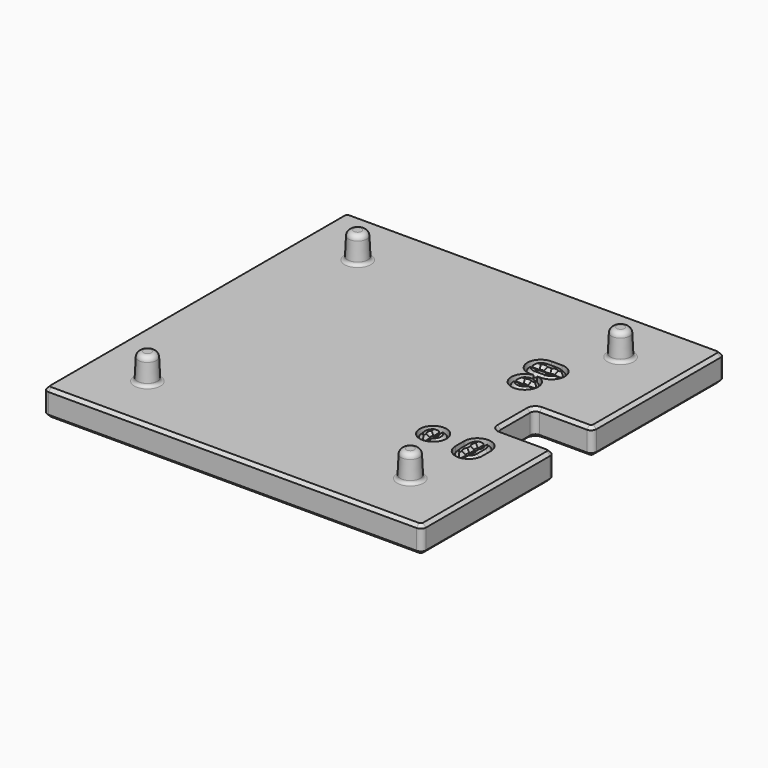
from build123d import *

# Parameters (mm, degrees)
SKETCH_R           = 0.425
PAD_DEPTH          = 5
FILLET_R           = 1
CHAMFER003_SIZE    = 0.6
SKETCH002_R        = 0.7
POCKET_DEPTH       = 3.001
CHAMFER001_SIZE    = 0.27
SKETCH003_R        = 2.55
POCKET001_DEPTH    = 4
CHAMFER004_SIZE    = 0.6
FILLET003_R        = 0.4
FILLET004_R        = 0.2075
SKETCH004_R        = 1.9
PAD001_DEPTH       = 5
FILLET001_R        = 0.6
CHAMFER002_1_SIZE2 = 0.2
CHAMFER002_1_SIZE  = 4.39
CHAMFER002_2_SIZE2 = 0.2
CHAMFER002_2_SIZE  = 4.39
CHAMFER002_3_SIZE2 = 0.2
CHAMFER002_3_SIZE  = 4.39
CHAMFER002_4_SIZE2 = 0.2
CHAMFER002_4_SIZE  = 4.39
FILLET002_R        = 1


with BuildPart() as part:
    # Sketch → Pad (new body)
    with BuildSketch(Plane.XY):
        Polygon((-36, 36), (36, 36), (36, 4.5), (25, 4.5), (25, -4.5), (36, -4.5), (36, -36), (-36, -36), align=None)
        with Locations((18.7, -11.7)):
            Circle(SKETCH_R, mode=Mode.SUBTRACT)
        with Locations((26.32, -10.685)):
            Circle(SKETCH_R, mode=Mode.SUBTRACT)
        with Locations((26.32, -12.715)):
            Circle(SKETCH_R, mode=Mode.SUBTRACT)
        with Locations((17.885, 14.93)):
            Circle(SKETCH_R, mode=Mode.SUBTRACT)
        with Locations((19.915, 14.93)):
            Circle(SKETCH_R, mode=Mode.SUBTRACT)
        with Locations((18.9, 9.85)):
            Circle(SKETCH_R, mode=Mode.SUBTRACT)
    extrude(amount=PAD_DEPTH)

    # Fillet
    fillet_edges = [part.edges().sort_by_distance(p)[0] for p in [
        (25, 4.5, 2.5),
        (36, 4.5, 2.5),
        (36, 36, 2.5),
        (36, -4.5, 2.5),
        (36, -36, 2.5),
        (-36, -36, 2.5),
        (25, -4.5, 2.5),
        (-36, 36, 2.5),
    ]]
    fillet(fillet_edges, radius=FILLET_R)

    # Chamfer003
    chamfer003_edges = [part.edges().sort_by_distance(p)[0] for p in [
        (-36, 0, 5),
        (-36, 0, 0),
    ]]
    chamfer(chamfer003_edges, length=CHAMFER003_SIZE)

    # Sketch002 → Pocket (cut, through all)
    with BuildSketch(Plane.XY.offset(3)):
        with Locations((18.7, -11.7)):
            Circle(SKETCH002_R)
        with Locations((18.9, 9.85)):
            Circle(SKETCH002_R)
        with BuildLine():
            ThreePointArc((27.02, -10.685), (26.32, -9.985), (25.62, -10.685))
            Line((25.62, -10.685), (25.62, -12.71501))
            ThreePointArc((25.62, -12.71501), (26.32, -13.415), (27.02, -12.71501))
            Line((27.02, -10.685), (27.02, -12.71501))
        make_face()
        with BuildLine():
            ThreePointArc((17.885, 15.63), (17.185, 14.93), (17.885, 14.23))
            Line((17.885, 14.23), (19.915, 14.23))
            ThreePointArc((19.915, 14.23), (20.615, 14.93), (19.915, 15.63))
            Line((17.885, 15.63), (19.915, 15.63))
        make_face()
    extrude(amount=-POCKET_DEPTH, mode=Mode.SUBTRACT)

    # Chamfer001
    chamfer001_edges = [part.edges().sort_by_distance(p)[0] for p in [
        (18, -11.7, 3),
        (26.32, -9.985, 3),
        (18.2, 9.85, 3),
        (20.615, 14.93, 3),
    ]]
    chamfer(chamfer001_edges, length=CHAMFER001_SIZE)

    # Sketch003 → Pocket001 (cut)
    with BuildSketch(Plane.XY.offset(5)):
        with Locations((18.7, -11.7)):
            Circle(SKETCH003_R)
        with BuildLine():
            ThreePointArc((18.4875, -9.610779), (16.6, -11.7), (18.4875, -13.789221))
            Line((18.4875, -9.610779), (18.4875, -13.789221))
        make_face(mode=Mode.SUBTRACT)
        with BuildLine():
            ThreePointArc((18.9125, -13.789221), (20.8, -11.7), (18.9125, -9.610779))
            Line((18.9125, -9.610779), (18.9125, -13.789221))
        make_face(mode=Mode.SUBTRACT)
        with Locations((18.9, 9.85)):
            Circle(SKETCH003_R)
        with BuildLine():
            Line((20.989221, 10.0625), (16.810779, 10.0625))
            ThreePointArc((20.989221, 10.0625), (18.9, 11.95), (16.810779, 10.0625))
        make_face(mode=Mode.SUBTRACT)
        with BuildLine():
            Line((20.989221, 9.6375), (16.810779, 9.6375))
            ThreePointArc((16.810779, 9.6375), (18.9, 7.75), (20.989221, 9.6375))
        make_face(mode=Mode.SUBTRACT)
        with BuildLine():
            ThreePointArc((28.87, -10.685), (26.32, -8.135), (23.77, -10.685))
            Line((23.77, -10.685), (23.77, -12.715))
            ThreePointArc((23.77, -12.715), (26.32, -15.265), (28.87, -12.715))
            Line((28.87, -10.685), (28.87, -12.715))
        make_face()
        with BuildLine():
            Line((24.22, -10.685), (24.22, -12.715))
            ThreePointArc((24.22, -12.715), (24.761756, -14.122791), (26.1075, -14.804221))
            Line((26.1075, -8.595779), (26.1075, -14.804221))
            ThreePointArc((26.1075, -8.595779), (24.761756, -9.277209), (24.22, -10.685))
        make_face(mode=Mode.SUBTRACT)
        with BuildLine():
            Line((28.42, -10.685), (28.42, -12.715))
            ThreePointArc((26.5325, -14.804221), (27.878244, -14.122791), (28.42, -12.715))
            Line((26.5325, -14.804221), (26.5325, -8.595779))
            ThreePointArc((28.42, -10.685), (27.878244, -9.277209), (26.5325, -8.595779))
        make_face(mode=Mode.SUBTRACT)
        with BuildLine():
            ThreePointArc((17.885, 17.48), (15.335, 14.93), (17.885, 12.38))
            Line((17.885, 12.38), (19.915, 12.38))
            ThreePointArc((19.915, 12.38), (22.465, 14.93), (19.915, 17.48))
            Line((17.885, 17.48), (19.915, 17.48))
        make_face()
        with BuildLine():
            Line((15.795779, 15.1425), (22.004221, 15.1425))
            ThreePointArc((22.004221, 15.1425), (21.322791, 16.488244), (19.915, 17.03))
            Line((17.885, 17.03), (19.915, 17.03))
            ThreePointArc((17.885, 17.03), (16.477209, 16.488244), (15.795779, 15.1425))
        make_face(mode=Mode.SUBTRACT)
        with BuildLine():
            Line((15.795779, 14.7175), (22.004221, 14.7175))
            ThreePointArc((19.915, 12.83), (21.322791, 13.371756), (22.004221, 14.7175))
            Line((17.885, 12.83), (19.915, 12.83))
            ThreePointArc((15.795779, 14.7175), (16.477209, 13.371756), (17.885, 12.83))
        make_face(mode=Mode.SUBTRACT)
    extrude(amount=-POCKET001_DEPTH, mode=Mode.SUBTRACT)

    # Chamfer004
    chamfer004_edges = [part.edges().sort_by_distance(p)[0] for p in [
        (19.915, 15.355, 5),
        (18.9, 15.1425, 5),
        (17.885, 15.355, 5),
        (16.656359, 15.1425, 5),
        (16.477209, 16.488244, 5),
        (18.9, 17.03, 5),
        (21.322791, 16.488244, 5),
        (21.143641, 15.1425, 5),
        (21.143641, 14.7175, 5),
        (21.322791, 13.371756, 5),
        (18.9, 12.83, 5),
        (16.477209, 13.371756, 5),
        (16.656359, 14.7175, 5),
        (17.885, 14.505, 5),
        (18.9, 14.7175, 5),
        (19.915, 14.505, 5),
        (18.9, 10.275, 5),
        (17.671359, 10.0625, 5),
        (18.9, 11.95, 5),
        (20.128641, 10.0625, 5),
        (20.128641, 9.6375, 5),
        (18.9, 7.75, 5),
        (17.671359, 9.6375, 5),
        (18.9, 9.425, 5),
        (18.275, -11.7, 5),
        (18.4875, -12.928641, 5),
        (16.6, -11.7, 5),
        (18.4875, -10.471359, 5),
        (19.068061, -11.4875, 5),
        (18.9125, -10.471359, 5),
        (20.8, -11.7, 5),
        (18.9125, -12.928641, 5),
        (19.068061, -11.9125, 5),
        (25.895, -12.715, 5),
        (26.1075, -13.943641, 5),
        (24.761756, -14.122791, 5),
        (24.22, -11.7, 5),
        (24.761756, -9.277209, 5),
        (26.1075, -9.456359, 5),
        (25.895, -10.685, 5),
        (26.1075, -11.7, 5),
        (26.688061, -12.5025, 5),
        (26.5325, -11.7, 5),
        (26.688061, -10.8975, 5),
        (26.688061, -10.4725, 5),
        (26.5325, -9.456359, 5),
        (27.878244, -9.277209, 5),
        (28.42, -11.7, 5),
        (27.878244, -14.122791, 5),
        (26.5325, -13.943641, 5),
        (26.688061, -12.9275, 5),
        (18, -11.7, 0),
        (26.32, -9.985, 0),
        (18.2, 9.85, 0),
        (20.615, 14.93, 0),
    ]]
    chamfer(chamfer004_edges, length=CHAMFER004_SIZE)

    # Fillet003
    fillet003_edges = [part.edges().sort_by_distance(p)[0] for p in [
        (22.004221, 15.1425, 2.7),
        (22.004221, 14.7175, 2.7),
        (15.795779, 15.1425, 2.7),
        (15.795779, 14.7175, 2.7),
        (16.810779, 10.0625, 2.7),
        (16.810779, 9.6375, 2.7),
        (20.989221, 10.0625, 2.7),
        (20.989221, 9.6375, 2.7),
        (26.1075, -8.595779, 2.7),
        (26.5325, -8.595779, 2.7),
        (26.5325, -14.804221, 2.7),
        (26.1075, -14.804221, 2.7),
        (18.9125, -13.789221, 2.7),
        (18.4875, -13.789221, 2.7),
        (18.9125, -9.610779, 2.7),
        (18.4875, -9.610779, 2.7),
    ]]
    fillet(fillet003_edges, radius=FILLET003_R)

    # Fillet004
    fillet004_edges = [part.edges().sort_by_distance(p)[0] for p in [
        (25.933722, -14.63071, 1),
        (26.706278, -14.63071, 1),
        (19.086278, -13.61571, 1),
        (18.313722, -13.61571, 1),
        (16.98429, 9.463722, 1),
        (16.98429, 10.236278, 1),
        (15.96929, 14.543722, 1),
        (15.96929, 15.316278, 1),
    ]]
    fillet(fillet004_edges, radius=FILLET004_R)

    # Sketch004 → Pad001 (join)
    with BuildSketch(Plane.XY.offset(5)):
        with Locations((-25, 25)):
            Circle(SKETCH004_R)
        with Locations((25, 25)):
            Circle(SKETCH004_R)
        with Locations((25, -25)):
            Circle(SKETCH004_R)
        with Locations((-25, -25)):
            Circle(SKETCH004_R)
    extrude(amount=PAD001_DEPTH)

    # Fillet001
    fillet001_edges = [part.edges().sort_by_distance(p)[0] for p in [
        (-26.9, 25, 5),
        (23.1, 25, 5),
        (23.1, -25, 5),
        (-26.9, -25, 5),
    ]]
    fillet(fillet001_edges, radius=FILLET001_R)

    # Chamfer002 1
    chamfer002_1_edges = [part.edges().sort_by_distance(p)[0] for p in [
        (-26.9, -25, 10),
    ]]
    chamfer002_1_side = part.faces().sort_by_distance((-26.9, -25, 7.8))[0]
    chamfer(chamfer002_1_edges, length=CHAMFER002_1_SIZE, length2=CHAMFER002_1_SIZE2, reference=chamfer002_1_side)

    # Chamfer002 2
    chamfer002_2_edges = [part.edges().sort_by_distance(p)[0] for p in [
        (-26.9, 25, 10),
    ]]
    chamfer002_2_side = part.faces().sort_by_distance((-26.9, 25, 7.8))[0]
    chamfer(chamfer002_2_edges, length=CHAMFER002_2_SIZE, length2=CHAMFER002_2_SIZE2, reference=chamfer002_2_side)

    # Chamfer002 3
    chamfer002_3_edges = [part.edges().sort_by_distance(p)[0] for p in [
        (23.1, 25, 10),
    ]]
    chamfer002_3_side = part.faces().sort_by_distance((23.1, 25, 7.8))[0]
    chamfer(chamfer002_3_edges, length=CHAMFER002_3_SIZE, length2=CHAMFER002_3_SIZE2, reference=chamfer002_3_side)

    # Chamfer002 4
    chamfer002_4_edges = [part.edges().sort_by_distance(p)[0] for p in [
        (23.1, -25, 10),
    ]]
    chamfer002_4_side = part.faces().sort_by_distance((23.1, -25, 7.8))[0]
    chamfer(chamfer002_4_edges, length=CHAMFER002_4_SIZE, length2=CHAMFER002_4_SIZE2, reference=chamfer002_4_side)

    # Fillet002
    fillet002_edges = [part.edges().sort_by_distance(p)[0] for p in [
        (-26.7, 25, 10),
        (23.3, 25, 10),
        (23.3, -25, 10),
        (-26.7, -25, 10),
    ]]
    fillet(fillet002_edges, radius=FILLET002_R)


solid = part.part
